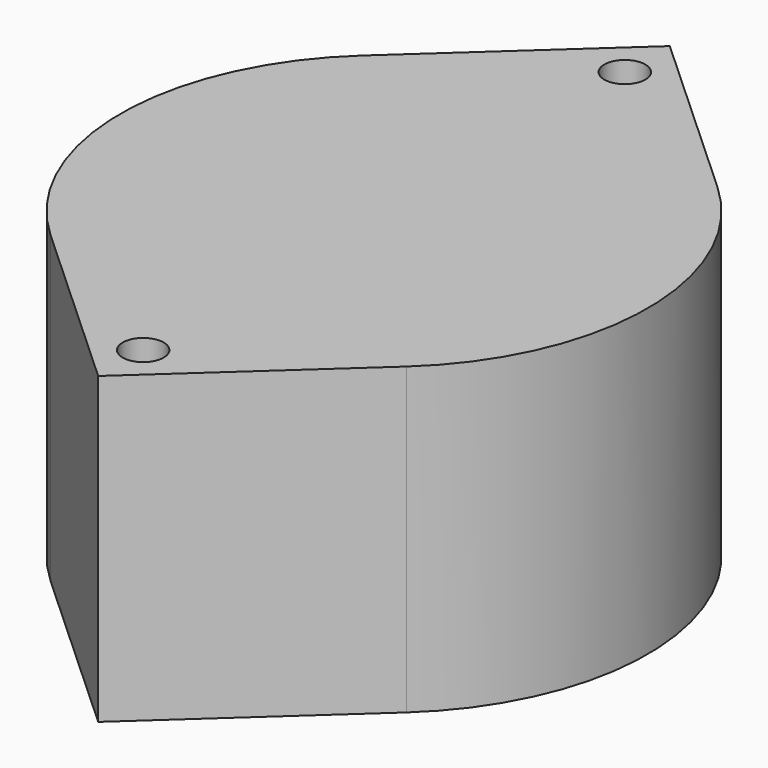
from build123d import *

# Parameters (mm, degrees)
SKETCH_R  = 1.75
PAD_DEPTH = 26


with BuildPart() as part:
    # Sketch → Pad (new body)
    with BuildSketch(Plane.XY):
        with BuildLine():
            Line((0, 30.499996), (-15.190274, 16.598361))
            ThreePointArc((-15.190274, 16.598361), (-22.5, 0.001507), (-15.192497, -16.596326))
            Line((0, -30.500004), (-15.192497, -16.596326))
            Line((0, -30.500004), (15.190268, -16.598366))
            ThreePointArc((15.190268, -16.598366), (22.5, -3e-06), (15.190272, 16.598363))
            Line((0, 30.499996), (15.190272, 16.598363))
        make_face()
        with Locations((0, 25.7)):
            Circle(SKETCH_R, mode=Mode.SUBTRACT)
        with Locations((0, -25.7)):
            Circle(SKETCH_R, mode=Mode.SUBTRACT)
    extrude(amount=PAD_DEPTH)


solid = part.part
